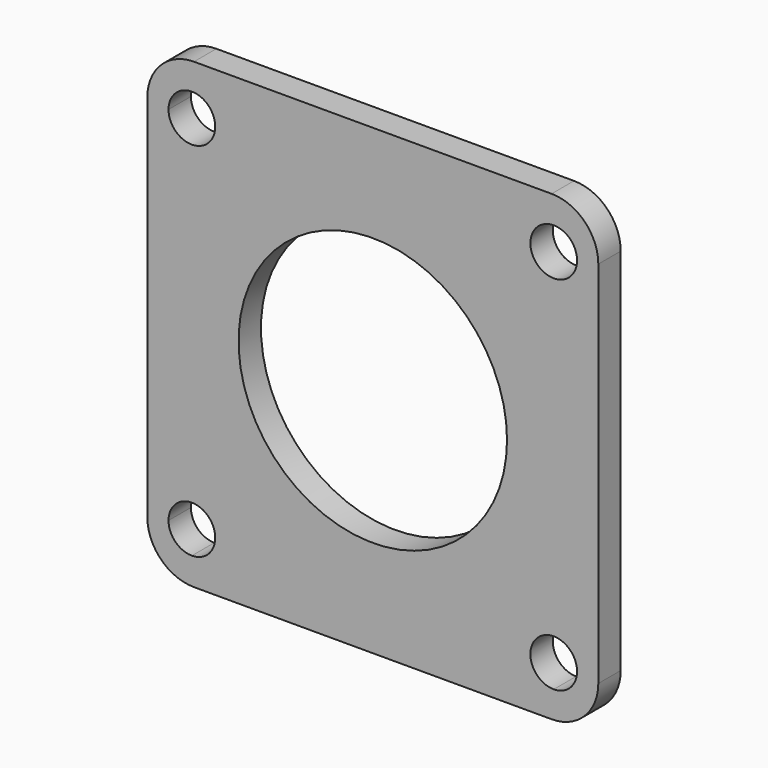
from build123d import *

# Parameters (mm, degrees)
F0_R     = 11.5
F1_DEPTH = 2.4


with BuildPart() as f1:
    # F0 (on Front) → F1 (new body)
    with BuildSketch(Plane.XZ):
        with BuildLine():
            Line((15.31951195, 19.8149923235), (-15.31951195, 19.8149923235))
            ThreePointArc((-15.31951195, 19.8149923235), (-18.1479390748, 18.6434194483), (-19.31951195, 15.8149923235))
            Line((-19.31951195, 15.8149923235), (-19.31951195, -15.8149923235))
            ThreePointArc((-19.31951195, -15.8149923235), (-18.1479390748, -18.6434194483), (-15.31951195, -19.8149923235))
            Line((-15.31951195, -19.8149923235), (15.31951195, -19.8149923235))
            ThreePointArc((15.31951195, -19.8149923235), (18.1479390748, -18.6434194483), (19.31951195, -15.8149923235))
            Line((19.31951195, -15.8149923235), (19.31951195, 15.8149923235))
            ThreePointArc((19.31951195, 15.8149923235), (18.1479390748, 18.6434194483), (15.31951195, 19.8149923235))
        make_face()
        with BuildLine():
            ThreePointArc((-17.5, 15.5), (-16.9142135624, 16.9142135624), (-15.5, 17.5))
            Line((-15.5, 17.5), (15.5, 17.5))
            ThreePointArc((15.5, 17.5), (16.9142135624, 16.9142135624), (17.5, 15.5))
            Line((17.5, 15.5), (17.5, -15.5))
            ThreePointArc((17.5, -15.5), (16.9142135624, -16.9142135624), (15.5, -17.5))
            Line((15.5, -17.5), (-15.5, -17.5))
            ThreePointArc((-15.5, -17.5), (-16.9142135624, -16.9142135624), (-17.5, -15.5))
            Line((-17.5, -15.5), (-17.5, 15.5))
        make_face(mode=Mode.SUBTRACT)
        with BuildLine():
            ThreePointArc((-15.5, 17.5), (-14.0857864376, 16.9142135624), (-13.5, 15.5))
            ThreePointArc((-13.5, 15.5), (-15.5, 13.5), (-17.5, 15.5))
            Line((-17.5, 15.5), (-17.5, -15.5))
            ThreePointArc((-17.5, -15.5), (-15.5, -13.5), (-13.5, -15.5))
            ThreePointArc((-13.5, -15.5), (-14.0857864376, -16.9142135624), (-15.5, -17.5))
            Line((-15.5, -17.5), (15.5, -17.5))
            ThreePointArc((15.5, -17.5), (14.0857864376, -14.0857864376), (17.5, -15.5))
            Line((17.5, -15.5), (17.5, 15.5))
            ThreePointArc((17.5, 15.5), (14.0857864376, 14.0857864376), (15.5, 17.5))
            Line((15.5, 17.5), (-15.5, 17.5))
        make_face()
        Circle(F0_R, mode=Mode.SUBTRACT)
    extrude(amount=F1_DEPTH)


solid = f1.part
